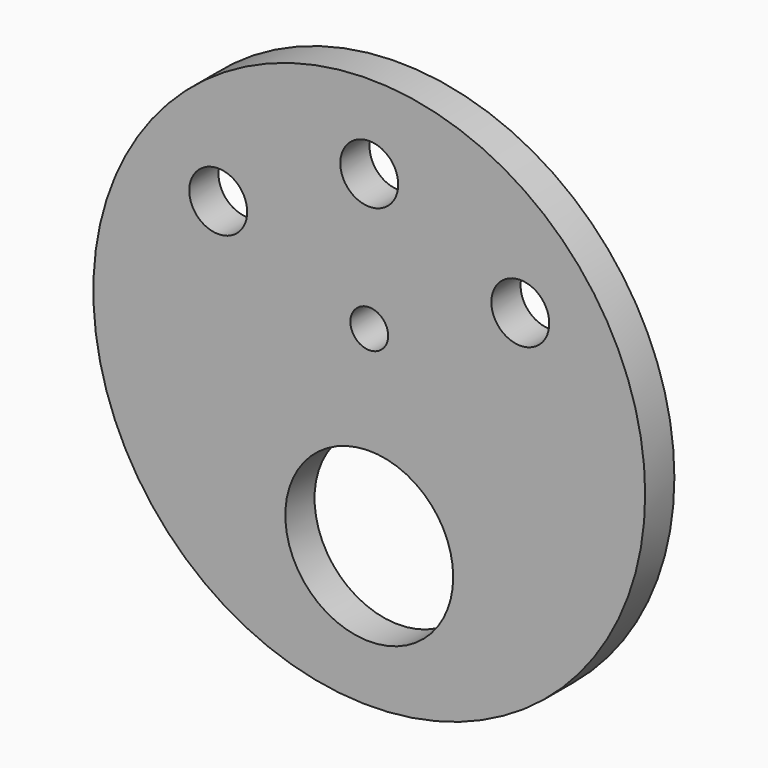
from build123d import *

# Parameters (mm, degrees)
F0_R     = 83.5025
F0_R_2   = 25.4
F0_R_3   = 8.763
F0_R_4   = 5.715
F1_DEPTH = 11.049


with BuildPart() as f1:
    # F0 (on Front) → F1 (new body)
    with BuildSketch(Plane.XZ):
        Circle(F0_R)
        with Locations((0, -40.9575)):
            Circle(F0_R_2, mode=Mode.SUBTRACT)
        with Locations((-45.712243, 36.070285)):
            Circle(F0_R_3, mode=Mode.SUBTRACT)
        with Locations((0, 16.9545)):
            Circle(F0_R_4, mode=Mode.SUBTRACT)
        with Locations((45.712243, 36.070285)):
            Circle(F0_R_3, mode=Mode.SUBTRACT)
        with Locations((0, 58.2295)):
            Circle(F0_R_3, mode=Mode.SUBTRACT)
    extrude(amount=F1_DEPTH)


solid = f1.part
